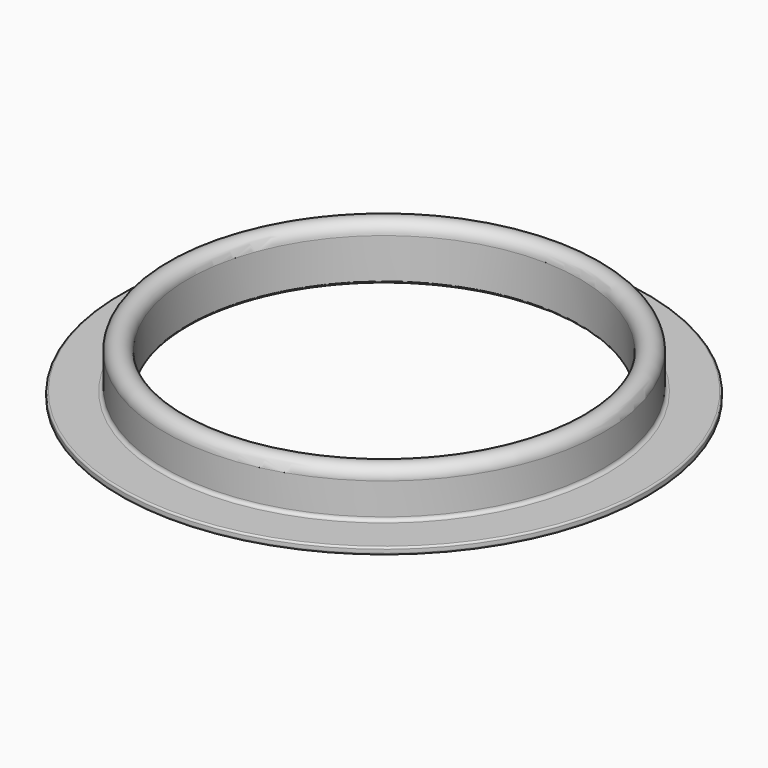
from build123d import *

# Parameters (mm, degrees)
F2_R = 0.1905


with BuildPart() as f1:
    # F0 (on Front) → F1 (revolve)
    with BuildSketch(Plane.XZ):
        with BuildLine():
            Line((23.749, 1.143), (23.749, 4.565296))
            ThreePointArc((23.749, 4.565296), (22.479, 5.842), (21.209, 4.565296))
            Line((21.209, 4.565296), (21.209, 0))
            Line((21.209, 0), (21.971, 0))
            Line((21.971, 0), (21.971, 4.565296))
            ThreePointArc((21.971, 4.565296), (22.479, 5.073296), (22.987, 4.565296))
            Line((22.987, 4.565296), (22.987, 1.143))
            Line((22.987, 1.143), (22.987, 0.762))
            ThreePointArc((22.987, 0.762), (23.210185, 0.223185), (23.749, 0))
            Line((23.749, 0), (24.13, 0))
            Line((24.13, 0), (28.575, 0))
            Line((28.575, 0), (28.575, 0.762))
            Line((28.575, 0.762), (24.13, 0.762))
            ThreePointArc((24.13, 0.762), (23.856934, 0.869934), (23.749, 1.143))
        make_face()
    revolve(axis=Axis((0, 0, -1.547879), (0, 0, -1)))

    # F2
    f2_edges = [f1.edges().sort_by_distance(p)[0] for p in [
        (-28.575, 0, 0),
        (-21.971, 0, 0),
        (-21.209, 0, 0),
        (-28.575, 0, 0.762),
    ]]
    fillet(f2_edges, radius=F2_R)


solid = f1.part
